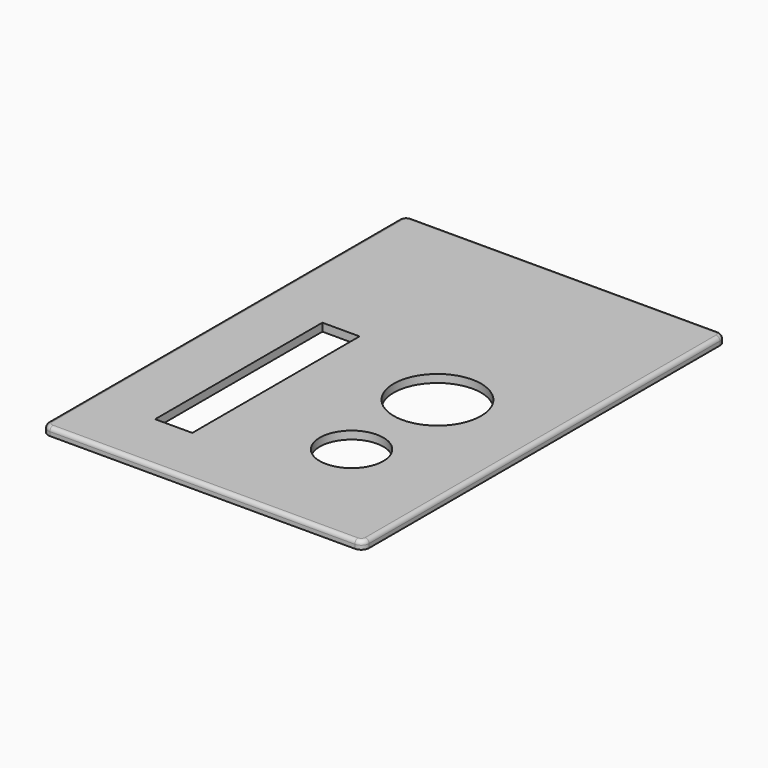
from build123d import *

# Parameters (mm, degrees)
SKETCH009_W     = 40.3725
SKETCH009_H     = 57.06
PAD005_DEPTH    = 1
SKETCH010_R     = 5.5
SKETCH010_R_2   = 4
SKETCH010_W     = 4.674176
SKETCH010_H     = 26.302142
POCKET003_DEPTH = 2
FILLET009_R     = 1
FILLET010_R     = 1
FILLET011_R     = 0.9
FILLET012_R     = 0.9
FILLET013_R     = 0.5


with BuildPart() as part:
    # Sketch009 → Pad005 (new body)
    with BuildSketch(Plane.XY.offset(10.9)):
        with Locations((16.18851, 26.244964)):
            Rectangle(SKETCH009_W, SKETCH009_H)
    extrude(amount=PAD005_DEPTH)

    # Sketch010 → Pocket003 (cut)
    with BuildSketch(Plane.XY.offset(11.9)):
        with Locations((23.106682, 26.030702)):
            Circle(SKETCH010_R)
        with Locations((23.106682, 12.530702)):
            Circle(SKETCH010_R_2)
        with Locations((6.364725, 18.636953)):
            Rectangle(SKETCH010_W, SKETCH010_H)
    extrude(amount=-POCKET003_DEPTH, mode=Mode.SUBTRACT)

    # Fillet009
    fillet009_edges = [part.edges().sort_by_distance(p)[0] for p in [
        (-3.99774, -2.285036, 11.4),
    ]]
    fillet(fillet009_edges, radius=FILLET009_R)

    # Fillet010
    fillet010_edges = [part.edges().sort_by_distance(p)[0] for p in [
        (36.37476, -2.285036, 11.4),
    ]]
    fillet(fillet010_edges, radius=FILLET010_R)

    # Fillet011
    fillet011_edges = [part.edges().sort_by_distance(p)[0] for p in [
        (36.37476, 54.774964, 11.4),
    ]]
    fillet(fillet011_edges, radius=FILLET011_R)

    # Fillet012
    fillet012_edges = [part.edges().sort_by_distance(p)[0] for p in [
        (-3.99774, 54.774964, 11.4),
    ]]
    fillet(fillet012_edges, radius=FILLET012_R)

    # Fillet013
    fillet013_edges = [part.edges().sort_by_distance(p)[0] for p in [
        (36.37476, 26.294964, 11.9),
    ]]
    fillet(fillet013_edges, radius=FILLET013_R)


solid = part.part
